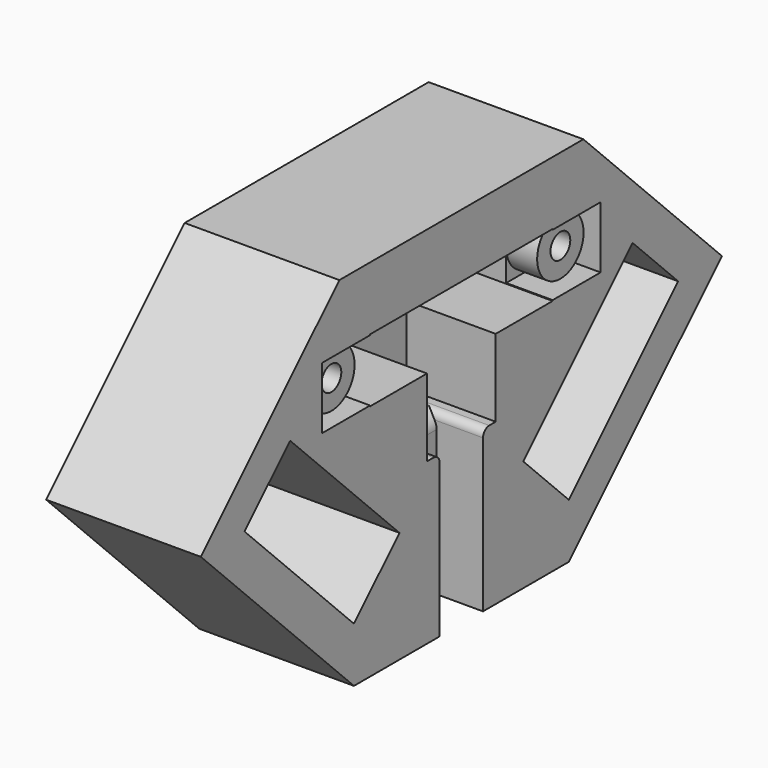
from build123d import *

# Parameters (mm, degrees)
PAD_DEPTH       = 20
POCKET_DEPTH    = 20
SKETCH002_W     = 29.5
SKETCH002_H     = 8.2
POCKET001_DEPTH = 18
SKETCH003_W     = 16.4
SKETCH003_H     = 7.2
SKETCH003_W_2   = 7.6
POCKET002_DEPTH = 5
SKETCH004_W     = 11.1
SKETCH004_H     = 10
POCKET003_DEPTH = 11.5
SKETCH005_W     = 7
SKETCH005_H     = 20.7519948728
POCKET004_DEPTH = 6
FILLET_R        = 2
FILLET001_R     = 1
FILLET002_R     = 1
SKETCH007_W     = 7
SKETCH007_H     = 14
POCKET005_DEPTH = 7
SKETCH008_W     = 7.75
SKETCH008_H     = 8
POCKET006_DEPTH = 6
SKETCH009_R     = 3.75
PAD001_DEPTH    = 4
SKETCH010_R     = 1.6
POCKET007_DEPTH = 20
SKETCH011_W     = 7.75
SKETCH011_H     = 8
POCKET008_DEPTH = 6
SKETCH012_R     = 3.75
PAD002_DEPTH    = 4
SKETCH013_R     = 1.6
POCKET009_DEPTH = 20


with BuildPart() as part:
    # Sketch → Pad (new body)
    with BuildSketch(Plane.YZ):
        Polygon((-19.7132034356, 22.3894444303), (19.7132034356, 22.3894444303), (42.1026478659, 0), (17.3539105243, -24.7487373415), (-17.3539105243, -24.7487373415), (-42.1026478659, 0), align=None)
    extrude(amount=PAD_DEPTH)

    # Sketch001 (on Face8 of Pad) → Pocket (cut)
    with BuildSketch(Plane.YZ.offset(20)):
        Polygon((-35.031580054, 0), (-17.3539105243, -17.6776695297), (-10, -10.3237590053), (-27.6776695297, 7.3539105243), align=None)
        Polygon((10, -10.3237590053), (27.6776695297, 7.3539105243), (35.031580054, 0), (17.3539105243, -17.6776695297), align=None)
    extrude(amount=-POCKET_DEPTH, mode=Mode.SUBTRACT)

    # Sketch002 (on Face5 of Pocket) → Pocket001 (cut)
    with BuildSketch(Plane.YZ.offset(20)):
        with Locations((0, 10.1032575313)):
            Rectangle(SKETCH002_W, SKETCH002_H)
    extrude(amount=-POCKET001_DEPTH, mode=Mode.SUBTRACT)

    # Sketch003 (on Face21 of Pocket001) → Pocket002 (cut)
    with BuildSketch(Plane.YZ.offset(2)):
        with Locations((-5.775, 10.1032575313)):
            Rectangle(SKETCH003_W, SKETCH003_H)
        with Locations((10.175, 10.1032575313)):
            Rectangle(SKETCH003_W_2, SKETCH003_H)
    extrude(amount=-POCKET002_DEPTH, mode=Mode.SUBTRACT)

    # Sketch004 (on Face5 of Pocket002) → Pocket003 (cut)
    with BuildSketch(Plane.YZ.offset(20)):
        with Locations((0, 1.0032575313)):
            Rectangle(SKETCH004_W, SKETCH004_H)
    extrude(amount=-POCKET003_DEPTH, mode=Mode.SUBTRACT)

    # Sketch005 (on Face5 of Pocket003) → Pocket004 (cut)
    with BuildSketch(Plane.YZ.offset(20)):
        with Locations((0, -14.3727399051)):
            Rectangle(SKETCH005_W, SKETCH005_H)
    extrude(amount=-POCKET004_DEPTH, mode=Mode.SUBTRACT)

    # Fillet
    fillet_edges = [part.edges().sort_by_distance(p)[0] for p in [
        (14, 0, -3.996742),
    ]]
    fillet(fillet_edges, radius=FILLET_R)

    # Fillet001
    fillet001_edges = [part.edges().sort_by_distance(p)[0] for p in [
        (17, -3.5, -3.996742),
    ]]
    fillet(fillet001_edges, radius=FILLET001_R)

    # Fillet002
    fillet002_edges = [part.edges().sort_by_distance(p)[0] for p in [
        (17, 3.5, -3.996742),
    ]]
    fillet(fillet002_edges, radius=FILLET002_R)

    # Sketch007 (on Face9 of Fillet002) → Pocket005 (cut)
    with BuildSketch(Plane.YX.offset(24.7487373415)):
        with Locations((0, 7)):
            Rectangle(SKETCH007_W, SKETCH007_H)
    extrude(amount=-POCKET005_DEPTH, mode=Mode.SUBTRACT)

    # Sketch008 (on Face11 of Pocket005) → Pocket006 (cut)
    with BuildSketch(Plane.YZ.offset(20)):
        with Locations((-18.625, 10.1032575313)):
            Rectangle(SKETCH008_W, SKETCH008_H)
    extrude(amount=-POCKET006_DEPTH, mode=Mode.SUBTRACT)

    # Sketch009 (on Face49 of Pocket006) → Pad001 (join)
    with BuildSketch(Plane.YZ.offset(14)):
        with Locations((-18.5, 10.1032575313)):
            Circle(SKETCH009_R)
    extrude(amount=PAD001_DEPTH)

    # Sketch010 (on Face51 of Pad001) → Pocket007 (cut)
    with BuildSketch(Plane.YZ.offset(18)):
        with Locations((-18.5, 10.1032575313)):
            Circle(SKETCH010_R)
    extrude(amount=-POCKET007_DEPTH, mode=Mode.SUBTRACT)

    # Sketch011 (on Face11 of Pocket007) → Pocket008 (cut)
    with BuildSketch(Plane.YZ.offset(20)):
        with Locations((18.625, 10.1032575313)):
            Rectangle(SKETCH011_W, SKETCH011_H)
    extrude(amount=-POCKET008_DEPTH, mode=Mode.SUBTRACT)

    # Sketch012 (on Face54 of Pocket008) → Pad002 (join)
    with BuildSketch(Plane.YZ.offset(14)):
        with Locations((18.5, 10.1032575313)):
            Circle(SKETCH012_R)
    extrude(amount=PAD002_DEPTH)

    # Sketch013 (on Face58 of Pad002) → Pocket009 (cut)
    with BuildSketch(Plane.YZ.offset(18)):
        with Locations((18.5, 10.1032575313)):
            Circle(SKETCH013_R)
    extrude(amount=-POCKET009_DEPTH, mode=Mode.SUBTRACT)


solid = part.part
